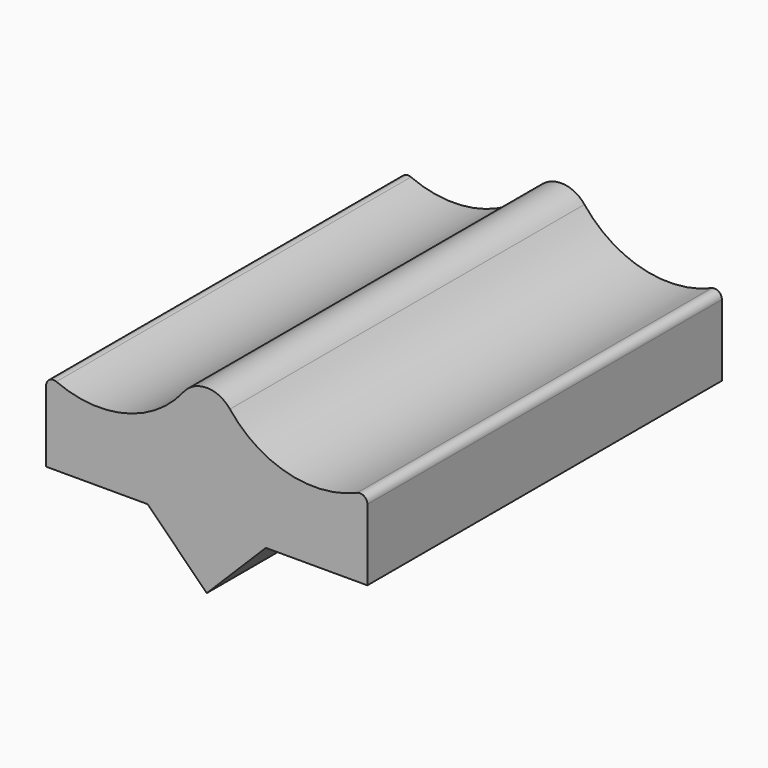
from build123d import *

# Parameters (mm, degrees)
PAD005_DEPTH    = 30
PAD006_DEPTH    = 30
SKETCH043_R     = 0.9
POCKET016_DEPTH = 5


with BuildPart() as part:
    # Sketch037 → Pad005 (new body)
    with BuildSketch(Plane.XZ.offset(-45)):
        with BuildLine():
            ThreePointArc((-10.178404, -6.708561), (-5.503497, -7.075491), (-1.569892, -4.522816))
            ThreePointArc((1.569892, -4.522816), (0, -3.761944), (-1.569892, -4.522816))
            ThreePointArc((1.569892, -4.522816), (5.503497, -7.075491), (10.178405, -6.708561))
            ThreePointArc((10.875556, -7.168051), (10.650715, -6.750573), (10.178405, -6.708561))
            Line((10.875556, -12), (10.875556, -7.168051))
            Line((10.875556, -12), (-10.875555, -12))
            Line((-10.875555, -12), (-10.875555, -7.168051))
            ThreePointArc((-10.178404, -6.708561), (-10.650714, -6.750574), (-10.875555, -7.168051))
        make_face()
    extrude(amount=PAD005_DEPTH)

    # Sketch042 → Pad006 (join)
    with BuildSketch(Plane.XZ.offset(-45)):
        Polygon((-4, -12), (0, -16), (4, -12), align=None)
    extrude(amount=PAD006_DEPTH)

    # Sketch043 → Pocket016 (cut)
    with BuildSketch(Plane.XY.offset(-9)):
        with Locations((-5.5, 30)):
            Circle(SKETCH043_R)
        with Locations((-5.5, -30)):
            Circle(SKETCH043_R)
        with Locations((5.5, 30)):
            Circle(SKETCH043_R)
        with Locations((5.5, -30)):
            Circle(SKETCH043_R)
    extrude(amount=-POCKET016_DEPTH, mode=Mode.SUBTRACT)


solid = part.part
